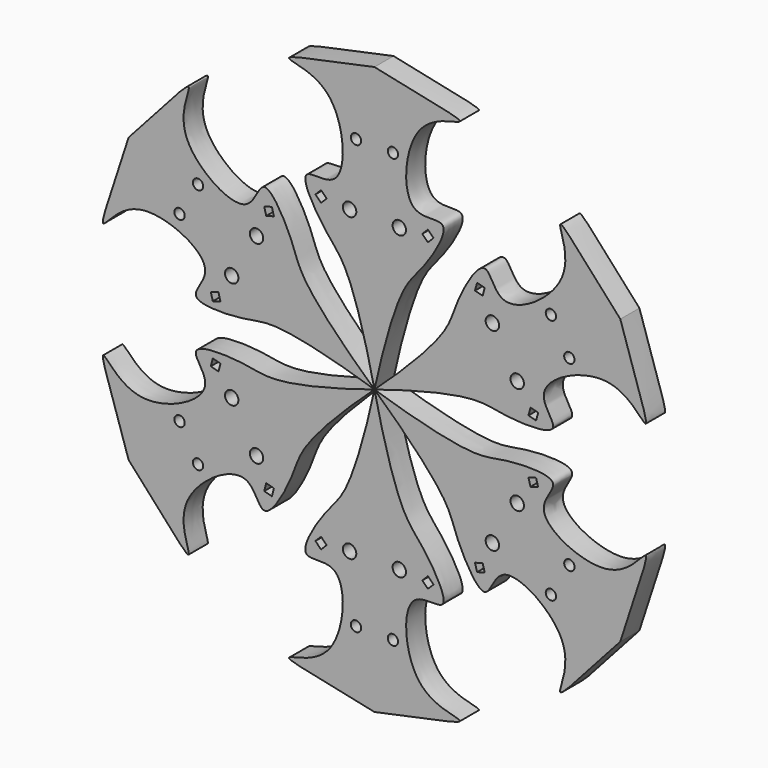
from build123d import *

# Parameters (mm, degrees)
F0_R     = 1.684638262
F0_R_2   = 1.3000190595
F1_DEPTH = 6
F3_COUNT = 6


with BuildPart() as f1:
    # F0 (on Front) → F1 (new body)
    with BuildSketch(Plane.XZ):
        with BuildLine():
            add(Edge.make_bspline(
                [(0, 71.4094631045), (20.5943776382, 67.101044505), (25.2188048494, 66.4441554226), (8.0966612347, 63.8021391919), (6.2667798525, 39.5241025428), (20.8573213834, 44.8269150121), (12.3995059083, 30.401214195), (6.3872141468, 25.5432581811), (1.9786891611, 9.173922048), (0, 0)],
                knots=[0, 0, 0, 0, 0.1765967753, 0.3017994933, 0.4621376363, 0.5642556226, 0.6902161216, 0.8059689242, 1, 1, 1, 1], degree=3))
            add(Edge.make_bspline(
                [(0, 71.4094631045), (-20.5943776382, 67.101044505), (-25.2188048494, 66.4441554226), (-8.0966612347, 63.8021391919), (-6.2667798525, 39.5241025428), (-20.8573213834, 44.8269150121), (-12.3995059083, 30.401214195), (-6.3872141468, 25.5432581811), (-1.9786891611, 9.173922048), (0, 0)],
                knots=[0, 0, 0, 0, 0.1765967753, 0.3017994933, 0.4621376363, 0.5642556226, 0.6902161216, 0.8059689242, 1, 1, 1, 1], degree=3))
        make_face()
        Polygon((-14.8515461478, 38.3726824075), (-13.4373325855, 39.7868959699), (-12.0231190231, 38.3726824075), (-13.4373325855, 36.9584688451), align=None, mode=Mode.SUBTRACT)
        with Locations((-6.2499962223, 37.8571487963)):
            Circle(F0_R, mode=Mode.SUBTRACT)
        with Locations((-4.6428563073, 53.9285726845)):
            Circle(F0_R_2, mode=Mode.SUBTRACT)
        with Locations((6.2499962223, 37.8571487963)):
            Circle(F0_R, mode=Mode.SUBTRACT)
        Polygon((13.4373325855, 36.9584688451), (12.0231190231, 38.3726824075), (13.4373325855, 39.7868959699), (14.8515461478, 38.3726824075), align=None, mode=Mode.SUBTRACT)
        with Locations((4.6428563073, 53.9285726845)):
            Circle(F0_R_2, mode=Mode.SUBTRACT)
    extrude(amount=F1_DEPTH)


with BuildPart() as f3_1:
    # F3: instance of F1
    add(f1.part.rotate(Axis((0, -31.874999404, 0), (0, -1, 0)), 1 * 360 / F3_COUNT))


with BuildPart() as f3_2:
    # F3: instance of F1
    add(f1.part.rotate(Axis((0, -31.874999404, 0), (0, -1, 0)), 2 * 360 / F3_COUNT))


with BuildPart() as f3_3:
    # F3: instance of F1
    add(f1.part.rotate(Axis((0, -31.874999404, 0), (0, -1, 0)), 3 * 360 / F3_COUNT))


with BuildPart() as f3_4:
    # F3: instance of F1
    add(f1.part.rotate(Axis((0, -31.874999404, 0), (0, -1, 0)), 4 * 360 / F3_COUNT))


with BuildPart() as f3_5:
    # F3: instance of F1
    add(f1.part.rotate(Axis((0, -31.874999404, 0), (0, -1, 0)), 5 * 360 / F3_COUNT))


solid = Compound([f1.part, f3_1.part, f3_2.part, f3_3.part, f3_4.part, f3_5.part])
